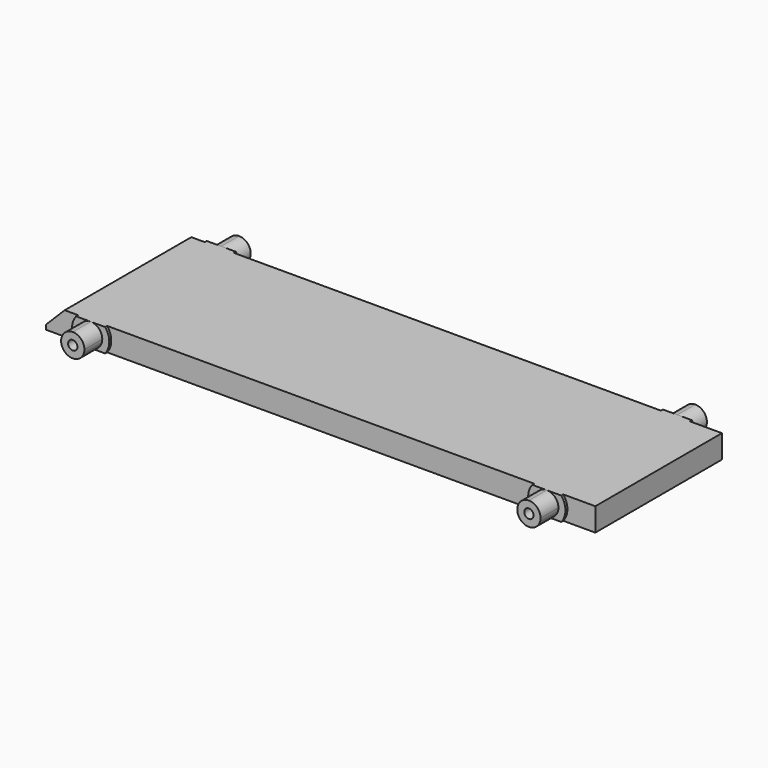
from build123d import *

# Parameters (mm, degrees)
F0_W      = 177
F0_H      = 51
F1_DEPTH  = 7.5
F3_DEPTH  = 8
F4_DEPTH  = 0.8
F5_R      = 1.5
F6_DEPTH  = 3
F8_DEPTH  = 8
F9_DEPTH  = 0.8
F10_R     = 1.5
F11_DEPTH = 3
F12_SIZE  = 6


with BuildPart() as f1:
    # F0 (on Top) → F1 (new body)
    with BuildSketch(Plane.XY):
        Rectangle(F0_W, F0_H)
    extrude(amount=F1_DEPTH)

    # F2 (on face) → F3 (join)
    with BuildSketch(Plane.XZ.offset(25.5)):
        with BuildLine():
            ThreePointArc((77.25, 3.75), (76.1516504294, 6.4016504294), (73.5, 7.5))
            ThreePointArc((73.5, 7.5), (69.75, 3.75), (73.5, 0))
            ThreePointArc((73.5, 0), (76.1516504294, 1.0983495706), (77.25, 3.75))
        make_face()
        with BuildLine():
            ThreePointArc((-73.5, 0), (-70.8483495706, 1.0983495706), (-69.75, 3.75))
            ThreePointArc((-69.75, 3.75), (-70.8483495706, 6.4016504294), (-73.5, 7.5))
            ThreePointArc((-73.5, 7.5), (-77.25, 3.75), (-73.5, 0))
        make_face()
    extrude(amount=F3_DEPTH)

    # F2 (on face) → F4 (join)
    with BuildSketch(Plane.XZ.offset(25.5)):
        with BuildLine():
            ThreePointArc((-73.5, 0), (-77.25, 3.75), (-73.5, 7.5))
            Line((-73.5, 7.5), (-78.1837484988, 7.5))
            ThreePointArc((-78.1837484988, 7.5), (-79.5, 3.75), (-78.1837484988, 0))
            Line((-78.1837484988, 0), (-73.5, 0))
        make_face()
        with BuildLine():
            ThreePointArc((-73.5, 7.5), (-70.8483495706, 6.4016504294), (-69.75, 3.75))
            ThreePointArc((-69.75, 3.75), (-70.8483495706, 1.0983495706), (-73.5, 0))
            Line((-73.5, 0), (-68.8162515012, 0))
            ThreePointArc((-68.8162515012, 0), (-67.8386180577, 1.7628526719), (-67.5, 3.75))
            ThreePointArc((-67.5, 3.75), (-67.8386180577, 5.7371473281), (-68.8162515012, 7.5))
            Line((-68.8162515012, 7.5), (-73.5, 7.5))
        make_face()
        with BuildLine():
            ThreePointArc((79.5, 3.75), (79.1613819423, 5.7371473281), (78.1837484988, 7.5))
            Line((78.1837484988, 7.5), (73.5, 7.5))
            ThreePointArc((73.5, 7.5), (76.1516504294, 6.4016504294), (77.25, 3.75))
            ThreePointArc((77.25, 3.75), (76.1516504294, 1.0983495706), (73.5, 0))
            Line((73.5, 0), (78.1837484988, 0))
            ThreePointArc((78.1837484988, 0), (79.1613819423, 1.7628526719), (79.5, 3.75))
        make_face()
        with BuildLine():
            Line((73.5, 7.5), (68.8162515012, 7.5))
            ThreePointArc((68.8162515012, 7.5), (67.5, 3.75), (68.8162515012, 0))
            Line((68.8162515012, 0), (73.5, 0))
            ThreePointArc((73.5, 0), (69.75, 3.75), (73.5, 7.5))
        make_face()
    extrude(amount=F4_DEPTH)

    # F5 (on face) → F6 (cut)
    with BuildSketch(Plane.XZ.offset(33.5)):
        with Locations((-73.5, 3.75)):
            Circle(F5_R)
        with Locations((73.5, 3.75)):
            Circle(F5_R)
    extrude(amount=-F6_DEPTH, mode=Mode.SUBTRACT)

    # F7 (on face) → F8 (join)
    with BuildSketch(Plane(origin=(0, 25.5, 0), x_dir=(-1, 0, 0), z_dir=(0, 1, 0))):
        with BuildLine():
            ThreePointArc((77.25, 3.75), (76.1516504294, 6.4016504294), (73.5, 7.5))
            ThreePointArc((73.5, 7.5), (69.75, 3.75), (73.5, 0))
            ThreePointArc((73.5, 0), (76.1516504294, 1.0983495706), (77.25, 3.75))
        make_face()
        with BuildLine():
            ThreePointArc((-73.5, 0), (-70.8483495706, 1.0983495706), (-69.75, 3.75))
            ThreePointArc((-69.75, 3.75), (-70.8483495706, 6.4016504294), (-73.5, 7.5))
            ThreePointArc((-73.5, 7.5), (-77.25, 3.75), (-73.5, 0))
        make_face()
    extrude(amount=F8_DEPTH)

    # F7 (on face) → F9 (join)
    with BuildSketch(Plane(origin=(0, 25.5, 0), x_dir=(-1, 0, 0), z_dir=(0, 1, 0))):
        with BuildLine():
            Line((73.5, 7.5), (68.8162515012, 7.5))
            ThreePointArc((68.8162515012, 7.5), (67.5, 3.75), (68.8162515012, 0))
            Line((68.8162515012, 0), (73.5, 0))
            ThreePointArc((73.5, 0), (69.75, 3.75), (73.5, 7.5))
        make_face()
        with BuildLine():
            ThreePointArc((79.5, 3.75), (79.1613819423, 5.7371473281), (78.1837484988, 7.5))
            Line((78.1837484988, 7.5), (73.5, 7.5))
            ThreePointArc((73.5, 7.5), (76.1516504294, 6.4016504294), (77.25, 3.75))
            ThreePointArc((77.25, 3.75), (76.1516504294, 1.0983495706), (73.5, 0))
            Line((73.5, 0), (78.1837484988, 0))
            ThreePointArc((78.1837484988, 0), (79.1613819423, 1.7628526719), (79.5, 3.75))
        make_face()
        with BuildLine():
            ThreePointArc((-73.5, 0), (-77.25, 3.75), (-73.5, 7.5))
            Line((-73.5, 7.5), (-78.1837484988, 7.5))
            ThreePointArc((-78.1837484988, 7.5), (-79.5, 3.75), (-78.1837484988, 0))
            Line((-78.1837484988, 0), (-73.5, 0))
        make_face()
        with BuildLine():
            ThreePointArc((-73.5, 7.5), (-70.8483495706, 6.4016504294), (-69.75, 3.75))
            ThreePointArc((-69.75, 3.75), (-70.8483495706, 1.0983495706), (-73.5, 0))
            Line((-73.5, 0), (-68.8162515012, 0))
            ThreePointArc((-68.8162515012, 0), (-67.8386180577, 1.7628526719), (-67.5, 3.75))
            ThreePointArc((-67.5, 3.75), (-67.8386180577, 5.7371473281), (-68.8162515012, 7.5))
            Line((-68.8162515012, 7.5), (-73.5, 7.5))
        make_face()
    extrude(amount=F9_DEPTH)

    # F10 (on face) → F11 (cut)
    with BuildSketch(Plane(origin=(0, 33.5, 0), x_dir=(-1, 0, 0), z_dir=(0, 1, 0))):
        with Locations((-73.5, 3.75)):
            Circle(F10_R)
        with Locations((73.5, 3.75)):
            Circle(F10_R)
    extrude(amount=-F11_DEPTH, mode=Mode.SUBTRACT)

    # F12
    f12_edges = [f1.edges().sort_by_distance(p)[0] for p in [
        (-88.5, 0, 7.5),
    ]]
    chamfer(f12_edges, length=F12_SIZE)


solid = f1.part
